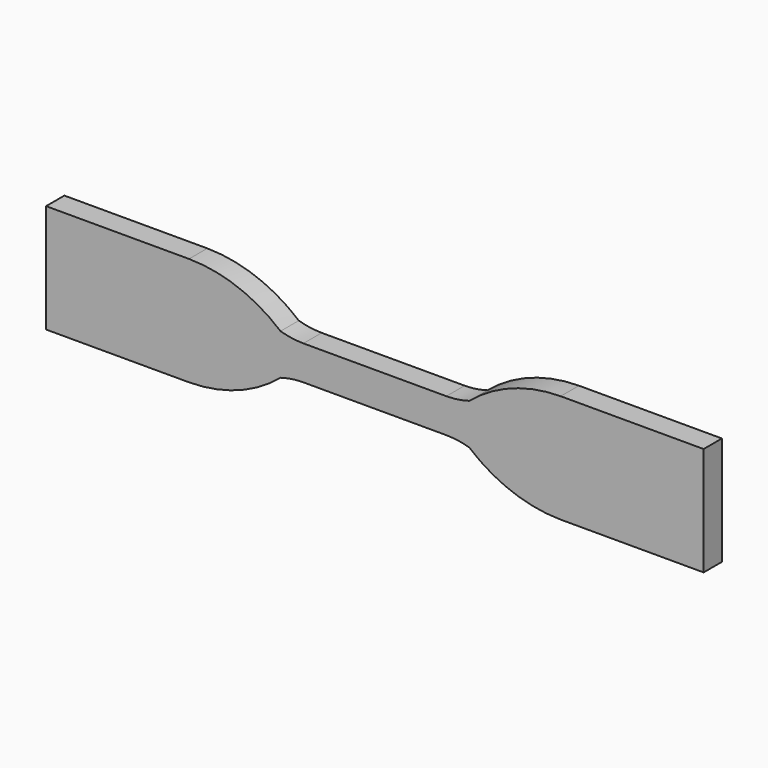
from build123d import *

# Parameters (mm, degrees)
F1_DEPTH = 2


with BuildPart() as f1:
    # F0 (on Front) → F1 (new body, symmetric)
    with BuildSketch(Plane.XZ):
        with BuildLine():
            Line((12.5, 3), (0, 3))
            Line((0, 3), (-12.5, 3))
            ThreePointArc((-12.5, 3), (-14.521174, 3.146666), (-16.5, 3.583592))
            ThreePointArc((-16.5, 3.583592), (-23.979757, 7.948711), (-32.5, 9.5))
            Line((-32.5, 9.5), (-57.5, 9.5))
            Line((-57.5, 9.5), (-57.5, -9.5))
            Line((-57.5, -9.5), (-32.5, -9.5))
            ThreePointArc((-32.5, -9.5), (-23.979757, -7.948711), (-16.5, -3.583592))
            ThreePointArc((-16.5, -3.583592), (-14.521174, -3.146666), (-12.5, -3))
            Line((-12.5, -3), (0, -3))
            Line((0, -3), (12.5, -3))
            ThreePointArc((12.5, -3), (14.521174, -3.146666), (16.5, -3.583592))
            ThreePointArc((16.5, -3.583592), (23.979757, -7.948711), (32.5, -9.5))
            Line((32.5, -9.5), (57.5, -9.5))
            Line((57.5, -9.5), (57.5, 9.5))
            Line((57.5, 9.5), (32.5, 9.5))
            ThreePointArc((32.5, 9.5), (23.979757, 7.948711), (16.5, 3.583592))
            ThreePointArc((16.5, 3.583592), (14.521174, 3.146666), (12.5, 3))
        make_face()
    extrude(amount=F1_DEPTH, both=True)


solid = f1.part
